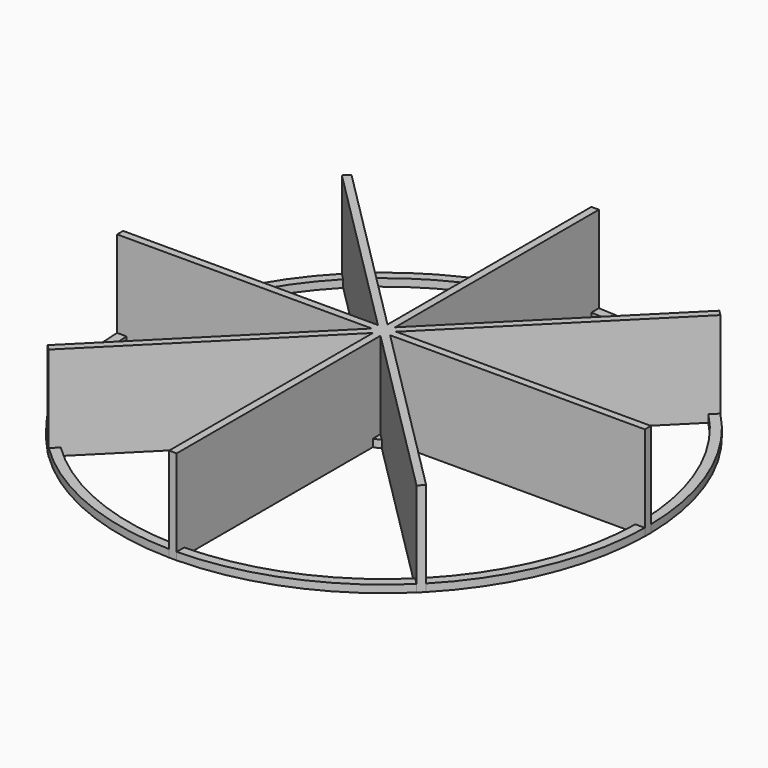
from build123d import *

# Parameters (mm, degrees)
SKETCH_W           = 2
SKETCH_H           = 70
PAD_DEPTH          = 25
POLARPATTERN_COUNT = 8
SKETCH001_R        = 70
SKETCH001_R_2      = 67.5
SKETCH001_R_3      = 5
PAD001_DEPTH       = 2


with BuildPart() as part:
    # Sketch → Pad (new body)
    with BuildSketch(Plane.XY):
        with Locations((0, 35)):
            Rectangle(SKETCH_W, SKETCH_H)
    pad = extrude(amount=PAD_DEPTH)

    # PolarPattern: Pad ×8 about axis
    polarpattern_axis = Axis((0, 0, 0), (0, 0, 1))
    for i in range(1, POLARPATTERN_COUNT):
        add(pad.rotate(polarpattern_axis, i * 360 / POLARPATTERN_COUNT))

    # Sketch001 → Pad001 (join)
    with BuildSketch(Plane.XY):
        Circle(SKETCH001_R)
        Circle(SKETCH001_R_2, mode=Mode.SUBTRACT)
        Circle(SKETCH001_R_3)
    extrude(amount=PAD001_DEPTH)


solid = part.part
